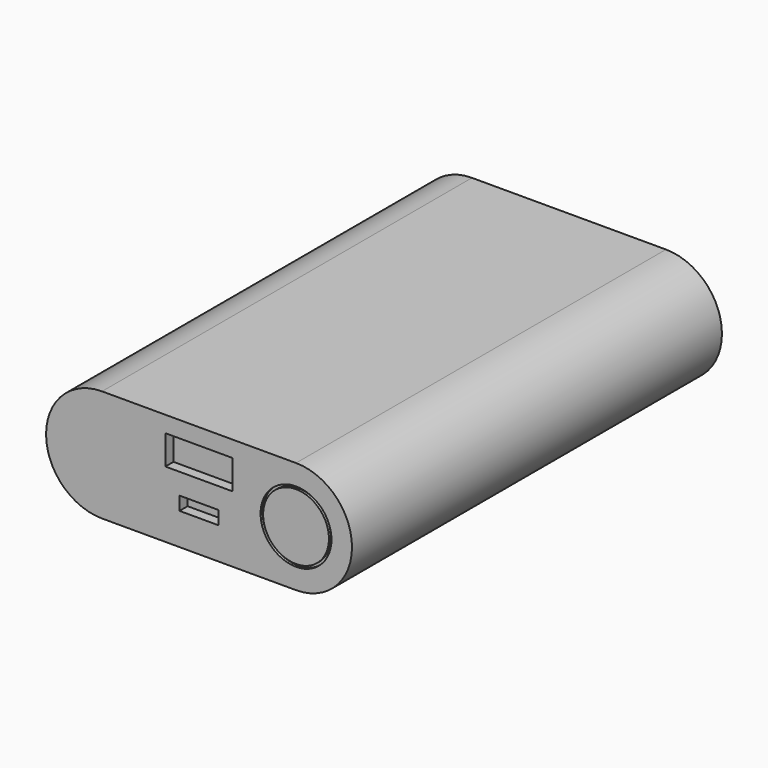
from build123d import *

# Parameters (mm, degrees)
F1_DEPTH = 91.3
F2_W     = 13.3
F2_H     = 5.8
F2_W_2   = 7.7
F2_H_2   = 2.66
F3_DEPTH = 2
F4_R     = 7
F4_R_2   = 6.5
F5_DEPTH = 0.5


with BuildPart() as f1:
    # F0 (on Front) → F1 (new body)
    with BuildSketch(Plane.XZ):
        with BuildLine():
            Line((49.35, 22.1), (11.05, 22.1))
            ThreePointArc((11.05, 22.1), (0, 11.05), (11.05, 0))
            Line((11.05, 0), (49.35, 0))
            ThreePointArc((49.35, 0), (60.4, 11.05), (49.35, 22.1))
        make_face()
    extrude(amount=F1_DEPTH)

    # F2 (on face) → F3 (cut)
    with BuildSketch(Plane.XZ.offset(91.3)):
        with Locations((30.2, 16)):
            Rectangle(F2_W, F2_H)
        with Locations((30.2, 7.63)):
            Rectangle(F2_W_2, F2_H_2)
    extrude(amount=-F3_DEPTH, mode=Mode.SUBTRACT)

    # F4 (on face) → F5 (cut)
    with BuildSketch(Plane.XZ.offset(91.3)):
        with Locations((49.35, 11.05)):
            Circle(F4_R)
        with Locations((49.35, 11.05)):
            Circle(F4_R_2, mode=Mode.SUBTRACT)
    extrude(amount=-F5_DEPTH, mode=Mode.SUBTRACT)


solid = f1.part
